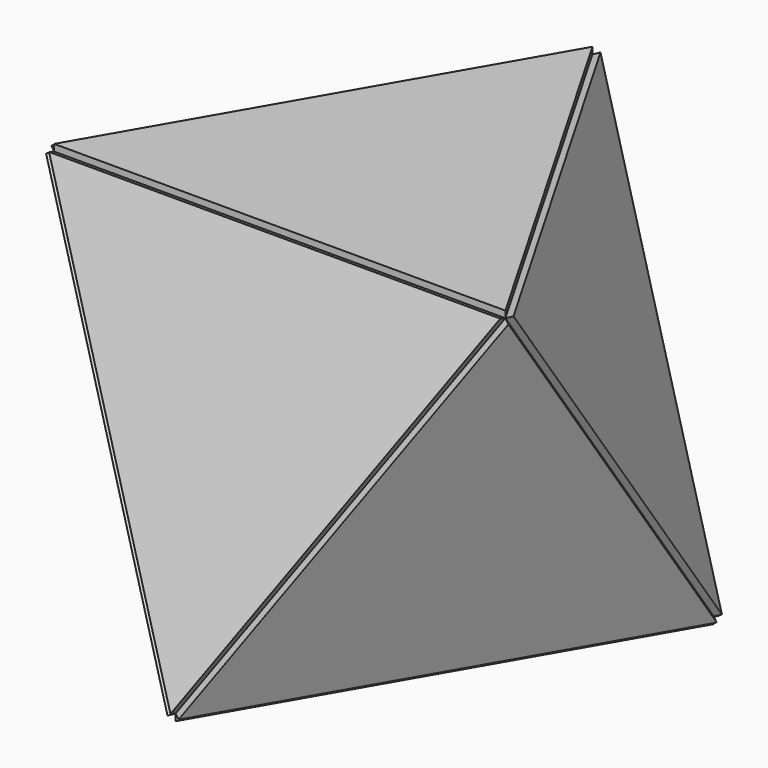
from build123d import *

# Parameters (mm, degrees)
F1_DEPTH  = 3
F4_ANGLE  = 109.47
F7_ANGLE  = -109.47
F9_COUNT  = 3
F11_ANGLE = 109.47
F12_COUNT = 3
F15_ANGLE = -109.47


with BuildPart() as f1:
    # F0 (on Top) → F1 (new body)
    with BuildSketch(Plane.XY):
        Polygon((50, 28.8675134595), (-50, 28.8675134595), (0, -57.735026919), align=None)
    extrude(amount=F1_DEPTH)


with BuildPart() as f3_1:
    # F3: copy of F1
    add(f1.part)


with BuildPart() as f3_1_1:
    # F4: moved
    add(f3_1.part.rotate(Axis((-25, -14.4337567297, 1.5), (0.5, -0.8660254038, 0)), F4_ANGLE))


with BuildPart() as f5_1:
    # F5: copy of F1
    add(f1.part)


with BuildPart() as f5_1_1:
    # F7: moved
    add(f5_1.part.rotate(Axis((0, 28.8675134595, 1.5), (1, 0, 0)), F7_ANGLE))


with BuildPart() as f9_1:
    # F9: instance of F3_1
    add(f3_1_1.part.rotate(Axis((0, 0, 37.9892624915), (0, 0, 1)), 1 * 360 / F9_COUNT))


with BuildPart() as f9_2:
    # F9: instance of F3_1
    add(f3_1_1.part.rotate(Axis((0, 0, 37.9892624915), (0, 0, 1)), 2 * 360 / F9_COUNT))


with BuildPart() as f5_1_2:
    # F11: moved
    add(f5_1_1.part.rotate(Axis((25, 43.3004004501, 42.3251365352), (-0.5, 0.2886577398, 0.8165027307)), F11_ANGLE))


with BuildPart() as f12_1:
    # F12: instance of F5_1
    add(f5_1_2.part.rotate(Axis((0, 0, 37.9892624915), (0, 0, 1)), 1 * 360 / F12_COUNT))


with BuildPart() as f12_2:
    # F12: instance of F5_1
    add(f5_1_2.part.rotate(Axis((0, 0, 37.9892624915), (0, 0, 1)), 2 * 360 / F12_COUNT))


with BuildPart() as f14_1:
    # F14: copy of F5_1
    add(f5_1_2.part)


with BuildPart() as f14_1_1:
    # F15: moved
    add(f14_1.part.rotate(Axis((24.9992467838, 14.4315824081, 83.1490430642), (0.4999849357, -0.8660341007, -2.46001e-05)), F15_ANGLE))


solid = Compound([f1.part, f3_1_1.part, f9_1.part, f9_2.part, f5_1_2.part, f12_1.part, f12_2.part, f14_1_1.part])
